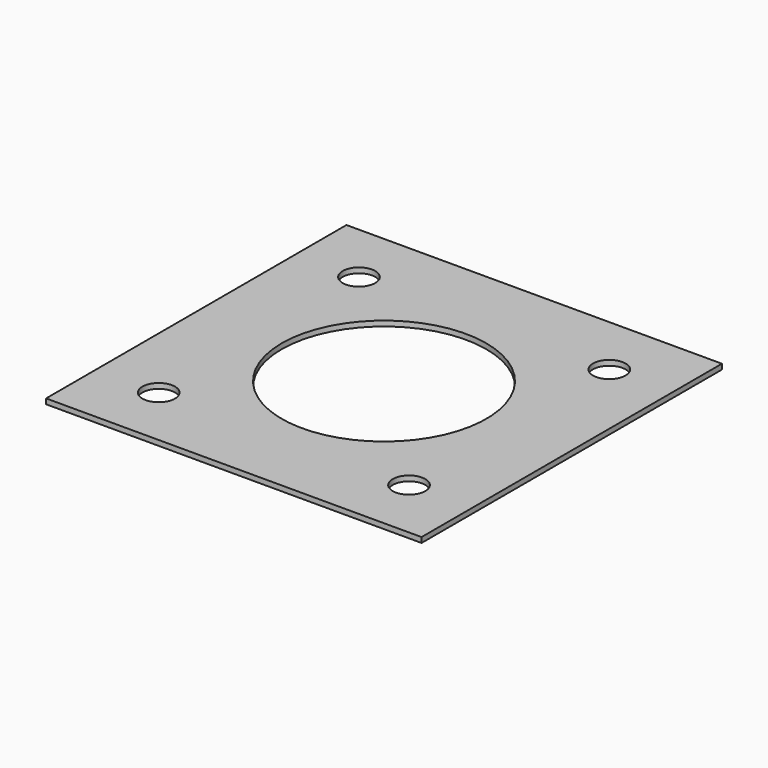
from build123d import *

# Parameters (mm, degrees)
F0_W     = 228.6
F0_H     = 228.6
F1_DEPTH = 1.5875
F3_D     = 19.84248
F4_D     = 124.587


with BuildPart() as f1:
    # F0 (on Top) → F1 (new body, symmetric)
    with BuildSketch(Plane.XY):
        Rectangle(F0_W, F0_H)
    extrude(amount=F1_DEPTH, both=True)

    # F3 (through all)
    with Locations(Plane.XY.offset(1.5875)):
        with Locations((-76.2, 76.2), (76.2, 76.2), (-76.2, -76.2), (76.2, -76.2)):
            Hole(F3_D / 2)

    # F4 (through all)
    with Locations(Plane.XY.offset(1.5875)):
        with Locations((0, 0)):
            Hole(F4_D / 2)


solid = f1.part
